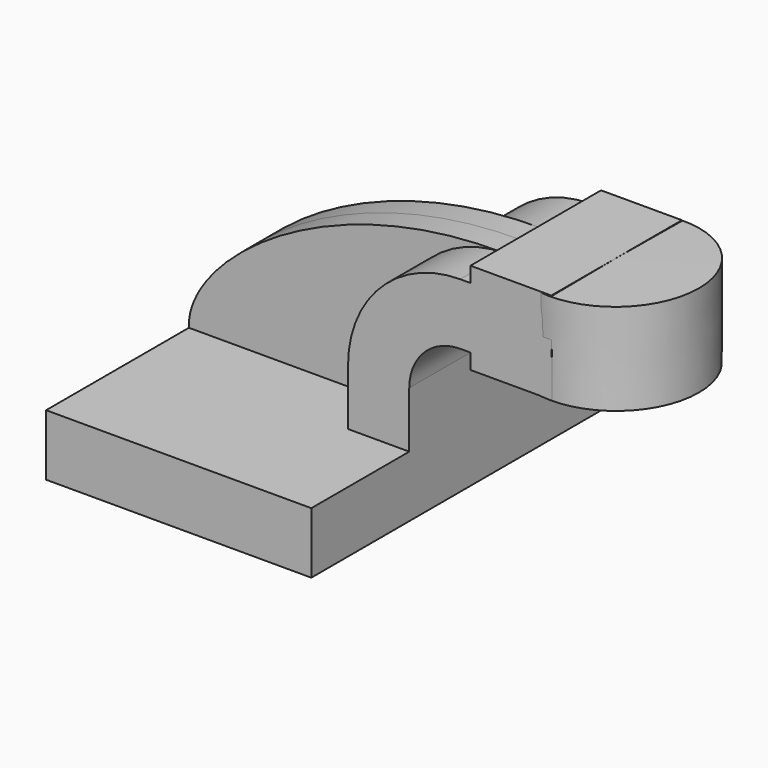
from build123d import *

# Parameters (mm, degrees)
F1_DEPTH = 63.5
F2_DEPTH = 25.4
F3_DEPTH = 7.9375


with BuildPart() as f1:
    # F0 (on Front) → F1 (new body, symmetric)
    with BuildSketch(Plane.XZ):
        Polygon((22.225, 9.525), (-41.275, 9.525), (-41.275, -9.525), (41.275, -9.525), (41.275, 9.525), align=None)
    extrude(amount=F1_DEPTH, both=True)

    # F0 (on Front) → F2 (join, symmetric)
    with BuildSketch(Plane.XZ):
        with BuildLine():
            Line((22.225, 27.0002), (22.225, 9.525))
            Line((22.225, 9.525), (41.275, 9.525))
            Line((41.275, 9.525), (41.275, 27.0002))
            ThreePointArc((41.275, 27.0002), (45.9246798487, 38.2255201513), (57.15, 42.8752))
            Line((57.15, 42.8752), (60.325, 42.8752))
            Line((60.325, 42.8752), (60.325, 61.9252))
            Line((60.325, 61.9252), (57.15, 61.9252))
            ThreePointArc((57.15, 61.9252), (32.4542956671, 51.6959043329), (22.225, 27.0002))
        make_face()
        Polygon((60.325, 66.675), (60.325, 61.9252), (60.325, 42.8752), (60.325, 38.1), (85.725, 38.1), (85.4835137725, 66.675), align=None)
    extrude(amount=F2_DEPTH, both=True)

    # F0 (on Front) → F3 (join, symmetric)
    with BuildSketch(Plane.XZ):
        with BuildLine():
            add(Edge.make_bspline(
                [(-41.275, 9.525), (-42.2199703753, 29.1535835713), (0, 62.711648643), (57.15, 61.9252)],
                knots=[0, 0, 0, 0, 111.5045361635, 111.5045361635, 111.5045361635, 111.5045361635], degree=3))
            Line((-41.275, 9.525), (22.225, 9.525))
            Line((22.225, 9.525), (22.225, 27.0002))
            ThreePointArc((22.225, 27.0002), (32.4542956671, 51.6959043329), (57.15, 61.9252))
        make_face()
    extrude(amount=F3_DEPTH, both=True)


with BuildPart() as f4:
    # F0 (on Front) → F4 (revolve)
    with BuildSketch(Plane.XZ):
        Polygon((111.125, 66.675), (85.4835137725, 66.675), (85.725, 38.1), (111.125, 38.1), align=None)
    revolve(axis=Axis((85.6042568862, 0, 52.3875), (-0.0084506598, 0, 0.9999642925)))


solid = Compound([f1.part, f4.part])
